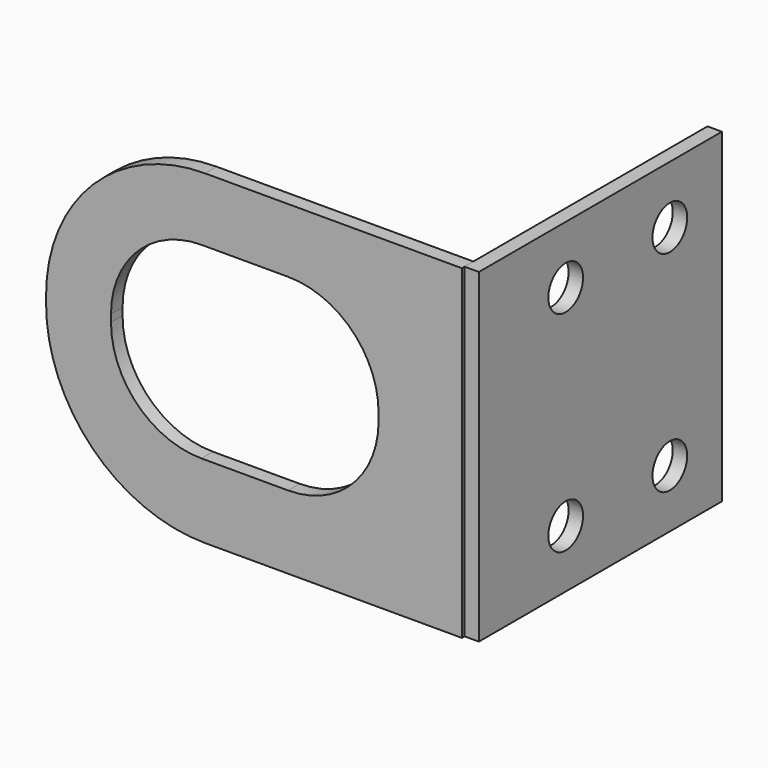
from build123d import *

# Parameters (mm, degrees)
SKETCH017_W  = 42
SKETCH017_H  = 45
SKETCH017_R  = 3
PAD012_DEPTH = 2
SKETCH018_W  = 57.5
SKETCH018_H  = 45
PAD013_DEPTH = 2
FILLET_R     = 22


with BuildPart() as part:
    # Sketch017 → Pad012 (new body)
    with BuildSketch(Plane(origin=(-40, 3, -3), x_dir=(0, 1, 0), z_dir=(1, 0, 0))):
        with Locations((18.460948, -2.635084)):
            Rectangle(SKETCH017_W, SKETCH017_H)
        with Locations((12.460948, 11.864916)):
            Circle(SKETCH017_R, mode=Mode.SUBTRACT)
        with Locations((30.460948, 11.864916)):
            Circle(SKETCH017_R, mode=Mode.SUBTRACT)
        with Locations((30.460948, -17.135084)):
            Circle(SKETCH017_R, mode=Mode.SUBTRACT)
        with Locations((12.460948, -17.135084)):
            Circle(SKETCH017_R, mode=Mode.SUBTRACT)
    extrude(amount=-PAD012_DEPTH)

    # Sketch018 → Pad013 (join)
    with BuildSketch(Plane(origin=(-21, 0, -3), x_dir=(1, 0, 0), z_dir=(0, -1, 0))):
        with Locations((-49.725473, -2.637928)):
            Rectangle(SKETCH018_W, SKETCH018_H)
        with BuildLine():
            Line((-57, -15), (-45, -15))
            ThreePointArc((-45, -15), (-36.161165, -11.338835), (-32.5, -2.5))
            Line((-32.5, -2.5), (-32.5, -1.5))
            ThreePointArc((-32.5, -1.5), (-36.161165, 7.338835), (-45, 11))
            Line((-45, 11), (-57, 11))
            ThreePointArc((-57, 11), (-65.838835, 7.338835), (-69.5, -1.5))
            Line((-69.5, -1.5), (-69.5, -2.5))
            ThreePointArc((-69.5, -2.5), (-65.838835, -11.338835), (-57, -15))
        make_face(mode=Mode.SUBTRACT)
    extrude(amount=-PAD013_DEPTH)

    # Fillet
    fillet_edges = [part.edges().sort_by_distance(p)[0] for p in [
        (-99.475473, 1, -28.137928),
        (-99.475473, 1, 16.862072),
    ]]
    fillet(fillet_edges, radius=FILLET_R)


solid = part.part
